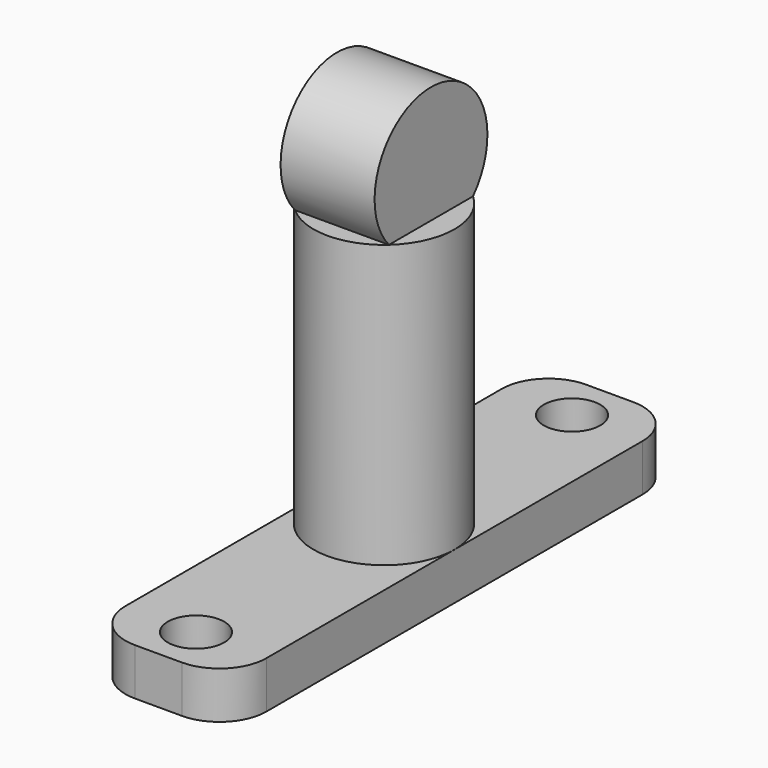
from build123d import *

# Parameters (mm, degrees)
F0_W     = 15
F0_H     = 60
F1_DEPTH = 5
F2_R     = 5
F3_R     = 7.5
F4_DEPTH = 30
F5_R     = 3
F6_DEPTH = 5
F7_R     = 7.5
F8_DEPTH = 5


with BuildPart() as f1:
    # F0 (on Top) → F1 (new body)
    with BuildSketch(Plane.XY):
        Rectangle(F0_W, F0_H)
    extrude(amount=F1_DEPTH)

    # F2
    f2_edges = [f1.edges().sort_by_distance(p)[0] for p in [
        (-7.5, 30, 2.5),
        (7.5, 30, 2.5),
        (7.5, -30, 2.5),
        (-7.5, -30, 2.5),
    ]]
    fillet(f2_edges, radius=F2_R)

    # F3 (on face) → F4 (join)
    with BuildSketch(Plane.XY.offset(5)):
        Circle(F3_R)
    extrude(amount=F4_DEPTH)

    # F5 (on face) → F6 (cut, through all)
    with BuildSketch(Plane(origin=(0, 0, 0), x_dir=(1, 0, 0), z_dir=(0, 0, -1))):
        with Locations((0, -25)):
            Circle(F5_R)
        with Locations((0, 25)):
            Circle(F5_R)
    extrude(amount=-F6_DEPTH, mode=Mode.SUBTRACT)

    # F7 (on Right) → F8 (join, symmetric)
    with BuildSketch(Plane.YZ):
        with Locations((0, 40)):
            Circle(F7_R)
    extrude(amount=F8_DEPTH, both=True)


solid = f1.part
